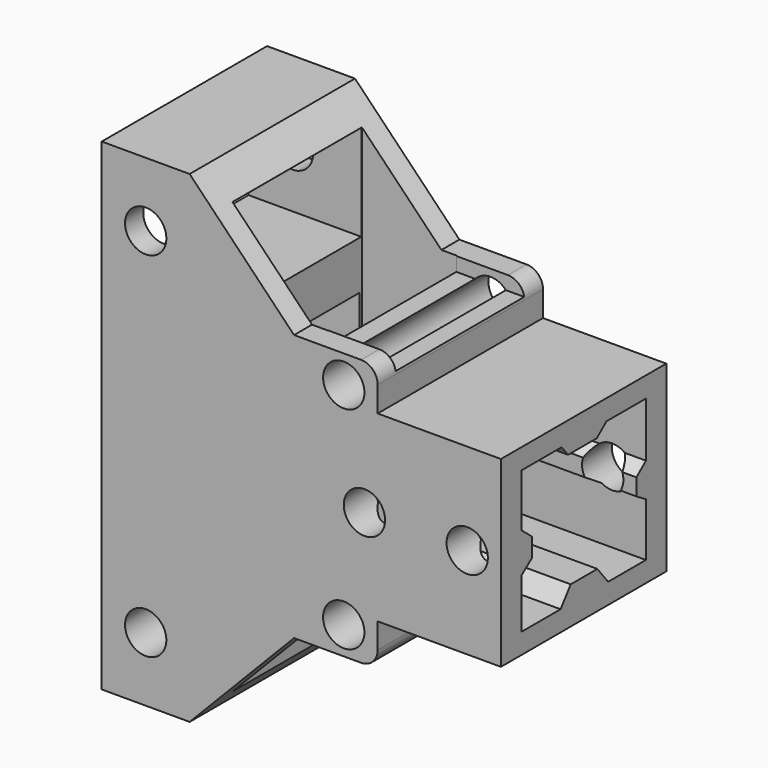
from build123d import *

# Parameters (mm, degrees)
F0_R      = 2.5
F1_DEPTH  = 12.5
F3_DEPTH  = 48.2856712694
F5_DEPTH  = 20
F7_DEPTH  = 50
F8_W      = 19.4369778037
F8_H      = 11.6137964651
F9_DEPTH  = 38.9448867569
F10_R     = 2.5
F11_DEPTH = 25.001


with BuildPart() as f1:
    # F0 (on Front) → F1 (new body, symmetric)
    with BuildSketch(Plane.XZ):
        with BuildLine():
            Line((9.3407845125, 0), (9.3407845125, 11.0652372241))
            Line((9.3407845125, 11.0652372241), (-5.5694617331, 11.0652372241))
            Line((-5.5694617331, 11.0652372241), (-5.5694617331, 14.1311359399))
            ThreePointArc((-5.5694617331, 14.1311359399), (-6.1552481707, 15.5453495022), (-7.5694617331, 16.1311359399))
            Line((-7.5694617331, 16.1311359399), (-15.6829056582, 16.1311359399))
            Line((-15.6829056582, 16.1311359399), (-28.3097643405, 29.1719902307))
            Line((-28.3097643405, 29.1719902307), (-38.9438867569, 29.1719902307))
            Line((-38.9438867569, 29.1719902307), (-38.9438867569, 0))
            Line((-38.9438867569, 0), (-38.9438867569, -29.1719902307))
            Line((-38.9438867569, -29.1719902307), (-28.3097643405, -29.1719902307))
            Line((-28.3097643405, -29.1719902307), (-15.6829056582, -16.1311359399))
            Line((-15.6829056582, -16.1311359399), (-7.5694617331, -16.1311359399))
            ThreePointArc((-7.5694617331, -16.1311359399), (-6.1552481707, -15.5453495022), (-5.5694617331, -14.1311359399))
            Line((-5.5694617331, -14.1311359399), (-5.5694617331, -11.0652372241))
            Line((-5.5694617331, -11.0652372241), (9.3407845125, -11.0652372241))
            Line((9.3407845125, -11.0652372241), (9.3407845125, 0))
        make_face()
        with Locations((-33.6268255487, -21.3849581778)):
            Circle(F0_R, mode=Mode.SUBTRACT)
        with Locations((-9.6699748597, -12.7693467682)):
            Circle(F0_R, mode=Mode.SUBTRACT)
        with Locations((-33.6268255487, 21.3849581778)):
            Circle(F0_R, mode=Mode.SUBTRACT)
        with Locations((-9.6699748597, 12.7693467682)):
            Circle(F0_R, mode=Mode.SUBTRACT)
    extrude(amount=F1_DEPTH, both=True)

    # F2 (on face) → F3 (cut, through all)
    with BuildSketch(Plane.YZ.offset(9.3407845125)):
        Polygon((9.4194319099, 8.595071733), (0, 8.595071733), (-9.4194319099, 8.595071733), (-9.4194319099, 0), (-9.4194319099, -8.595071733), (0, -8.595071733), (9.4194319099, -8.595071733), (9.4194319099, 0), align=None)
    extrude(amount=-F3_DEPTH, mode=Mode.SUBTRACT)

    # F4 (on face) → F5 (join)
    with BuildSketch(Plane.YZ.offset(9.3407845125)):
        Polygon((3.4560158383, 8.595071733), (-3.3186981454, 8.595071733), (-2.3508819286, 7.3865675367), (2.0042911638, 7.3865675367), align=None)
        Polygon((9.4194319099, -2.1302928217), (9.4194319099, 1.9829263911), (7.9856240889, 0.7893372769), (7.9856240889, -1.2431278592), align=None)
        Polygon((-1.9476253074, -6.5661179833), (-3.4800015856, -8.595071733), (3.6979699507, -8.595071733), (2.0849425346, -6.5661179833), align=None)
        Polygon((-7.8351749107, 0.9344584541), (-9.4194319099, 2.2248802707), (-9.4194319099, -2.6142010465), (-7.8351749107, -1.4044306008), align=None)
    extrude(amount=-F5_DEPTH)

    # F6 (on Top) → F7 (cut, symmetric)
    with BuildSketch(Plane.XY):
        Polygon((-13.8051696122, 9.7849667072), (-25.3022368997, 9.7849667072), (-25.3022368997, 0), (-25.3022368997, -9.7849667072), (-13.8051696122, -9.7849667072), (-13.8051696122, 0), align=None)
    extrude(amount=F7_DEPTH, both=True, mode=Mode.SUBTRACT)

    # F8 (on Right) → F9 (cut, through all)
    with BuildSketch(Plane.YZ):
        with Locations((-0.0271862373, 20.2530925162)):
            Rectangle(F8_W, F8_H)
    extrude(amount=-F9_DEPTH, mode=Mode.SUBTRACT)

    # F10 (on face) → F11 (cut, through all)
    with BuildSketch(Plane.XZ.offset(12.5)):
        with Locations((-7.1705817245, 0)):
            Circle(F10_R)
        with Locations((5.2617667243, 0)):
            Circle(F10_R)
    extrude(amount=-F11_DEPTH, mode=Mode.SUBTRACT)


solid = f1.part
